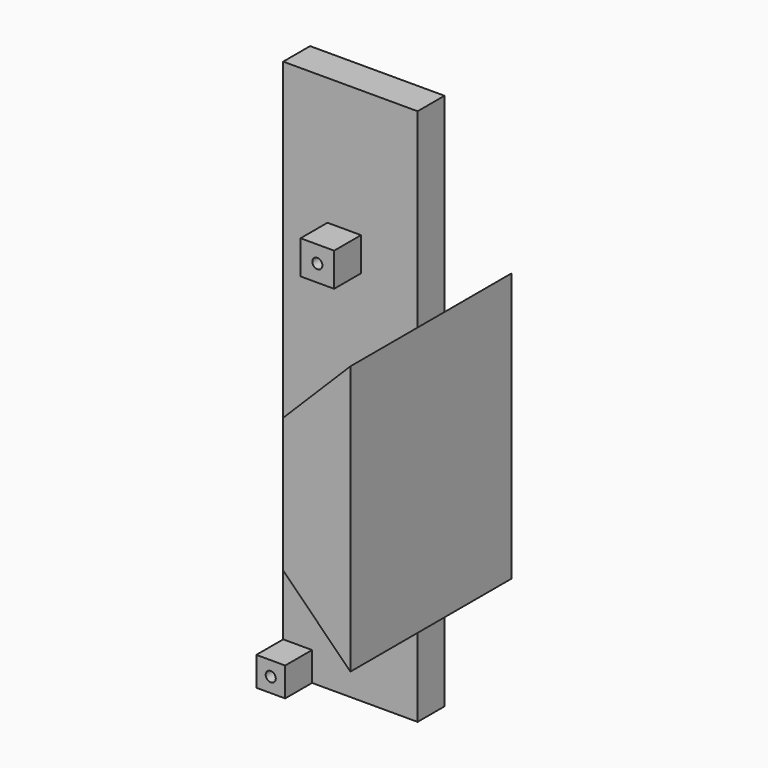
from build123d import *

# Parameters (mm, degrees)
F0_W     = 20
F0_H     = 80
F1_DEPTH = 5
F3_W     = 5
F3_H     = 5
F3_R     = 0.75
F4_DEPTH = 10
F2_W     = 4.293
F2_H     = 4.31325
F2_R     = 0.75
F5_DEPTH = 5
F6_W     = 10
F6_H     = 20
F7_DEPTH = 30


with BuildPart() as f1:
    # F0 (on Front) → F1 (new body)
    with BuildSketch(Plane.XZ):
        Rectangle(F0_W, F0_H)
    extrude(amount=F1_DEPTH)

    # F3 (on Front) → F4 (join)
    with BuildSketch(Plane.XZ):
        with Locations((-0.917875, 18.532625)):
            Rectangle(F3_W, F3_H)
        with Locations((-0.917875, 18.532625)):
            Circle(F3_R, mode=Mode.SUBTRACT)
    extrude(amount=F4_DEPTH)

    # F2 (on face) → F5 (join)
    with BuildSketch(Plane.XZ.offset(5)):
        with Locations((-7.8535, -37.843375)):
            Rectangle(F2_W, F2_H)
        with Locations((-7.8535, -37.843375)):
            Circle(F2_R, mode=Mode.SUBTRACT)
    extrude(amount=F5_DEPTH)

    # F6 (on Front) → F7 (join)
    with BuildSketch(Plane.XZ):
        with Locations((15, 0)):
            Rectangle(F6_W, F6_H)
        Polygon((20, -10), (10, -10), (20, -20), align=None)
        Polygon((20, 20), (10, 10), (20, 10), align=None)
    extrude(amount=F7_DEPTH)


solid = f1.part
